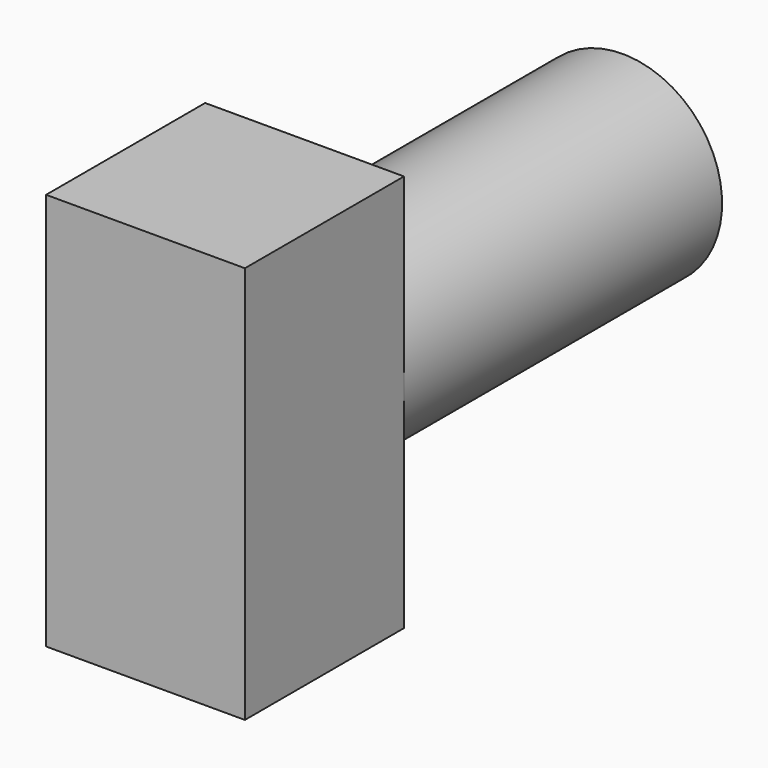
from build123d import *

# Parameters (mm, degrees)
F1_DEPTH = 30
F2_DEPTH = 60


with BuildPart() as f1:
    # F0 (on Front) → F1 (new body)
    with BuildSketch(Plane.XZ):
        with BuildLine():
            Line((7.7097149414, 27.9853592813), (-22.2902850586, 27.9853592813))
            Line((-22.2902850586, 27.9853592813), (-22.2902850586, 6.68e-08))
            ThreePointArc((-22.2902850586, 6.68e-08), (-7.2902850252, 15), (7.7097149414, 0))
            Line((7.7097149414, 0), (7.7097149414, 27.9853592813))
        make_face()
        with BuildLine():
            ThreePointArc((7.7097149414, 0), (-7.290285092, -15), (-22.2902850586, 6.68e-08))
            Line((-22.2902850586, 6.68e-08), (-22.2902850586, -32.0146407187))
            Line((-22.2902850586, -32.0146407187), (7.7097149414, -32.0146407187))
            Line((7.7097149414, -32.0146407187), (7.7097149414, 0))
        make_face()
        with BuildLine():
            ThreePointArc((7.7097149414, 0), (-7.2902850252, 15), (-22.2902850586, 6.68e-08))
            ThreePointArc((-22.2902850586, 6.68e-08), (-7.290285092, -15), (7.7097149414, 0))
        make_face()
    extrude(amount=F1_DEPTH)

    # F0 (on Front) → F2 (join)
    with BuildSketch(Plane.XZ):
        with BuildLine():
            ThreePointArc((7.7097149414, 0), (-7.2902850252, 15), (-22.2902850586, 6.68e-08))
            ThreePointArc((-22.2902850586, 6.68e-08), (-7.290285092, -15), (7.7097149414, 0))
        make_face()
    extrude(amount=-F2_DEPTH)


solid = f1.part
